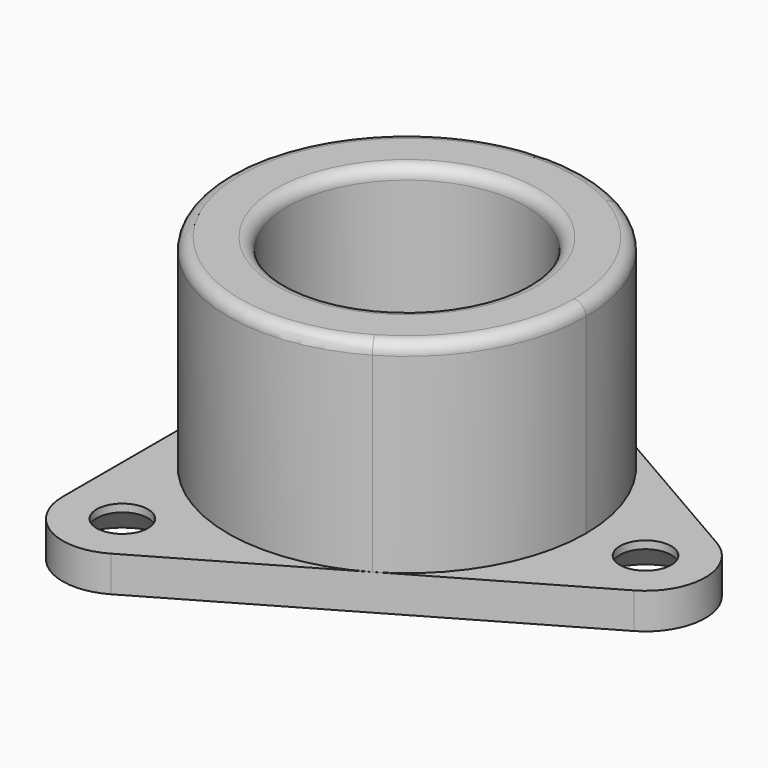
from build123d import *

# Parameters (mm, degrees)
F0_R           = 10
F1_DEPTH       = 20
F2_DEPTH       = 3
F3_D           = 4.3
F3_CSINK_D     = 9
F3_CSINK_ANGLE = 90
F4_R           = 2
F5_R           = 1


with BuildPart() as f1:
    # F0 (on Top) → F1 (new body)
    with BuildSketch(Plane.XY):
        with BuildLine():
            ThreePointArc((15, 0), (12.990381, 7.5), (7.5, 12.990381))
            ThreePointArc((7.5, 12.990381), (-7.5, 12.990381), (-15, 0))
            ThreePointArc((-15, 0), (-7.5, -12.990381), (7.5, -12.990381))
            ThreePointArc((7.5, -12.990381), (12.990381, -7.5), (15, 0))
        make_face()
        Circle(F0_R, mode=Mode.SUBTRACT)
    extrude(amount=F1_DEPTH)

    # F0 (on Top) → F2 (join)
    with BuildSketch(Plane.XY):
        with BuildLine():
            ThreePointArc((-15, 0), (-7.5, 12.990381), (7.5, 12.990381))
            Line((7.5, 12.990381), (-7.5, 21.650635))
            ThreePointArc((-7.5, 21.650635), (-12.5, 21.650635), (-15, 17.320508))
            Line((-15, 17.320508), (-15, 0))
        make_face()
        with BuildLine():
            ThreePointArc((22.5, -4.330127), (25, 0), (22.5, 4.330127))
            Line((22.5, 4.330127), (7.5, 12.990381))
            ThreePointArc((7.5, 12.990381), (12.990381, 7.5), (15, 0))
            ThreePointArc((15, 0), (12.990381, -7.5), (7.5, -12.990381))
            Line((7.5, -12.990381), (22.5, -4.330127))
        make_face()
        with BuildLine():
            ThreePointArc((7.5, -12.990381), (-7.5, -12.990381), (-15, 0))
            Line((-15, 0), (-15, -17.320508))
            ThreePointArc((-15, -17.320508), (-12.5, -21.650635), (-7.5, -21.650635))
            Line((-7.5, -21.650635), (7.5, -12.990381))
        make_face()
    extrude(amount=F2_DEPTH)

    # F3 (through all)
    with Locations(Plane(origin=(0, 0, 0), x_dir=(1, 0, 0), z_dir=(0, 0, -1))):
        with Locations((20, 0), (-10, -17.320508), (-10, 17.320508)):
            CounterSinkHole(F3_D / 2, F3_CSINK_D / 2, counter_sink_angle=F3_CSINK_ANGLE)

    # F4
    f4_edges = [f1.edges().sort_by_distance(p)[0] for p in [
        (-10, 0, 0),
    ]]
    fillet(f4_edges, radius=F4_R)

    # F5
    f5_edges = [f1.edges().sort_by_distance(p)[0] for p in [
        (-15, 0, 20),
        (-10, 0, 20),
    ]]
    fillet(f5_edges, radius=F5_R)


solid = f1.part
